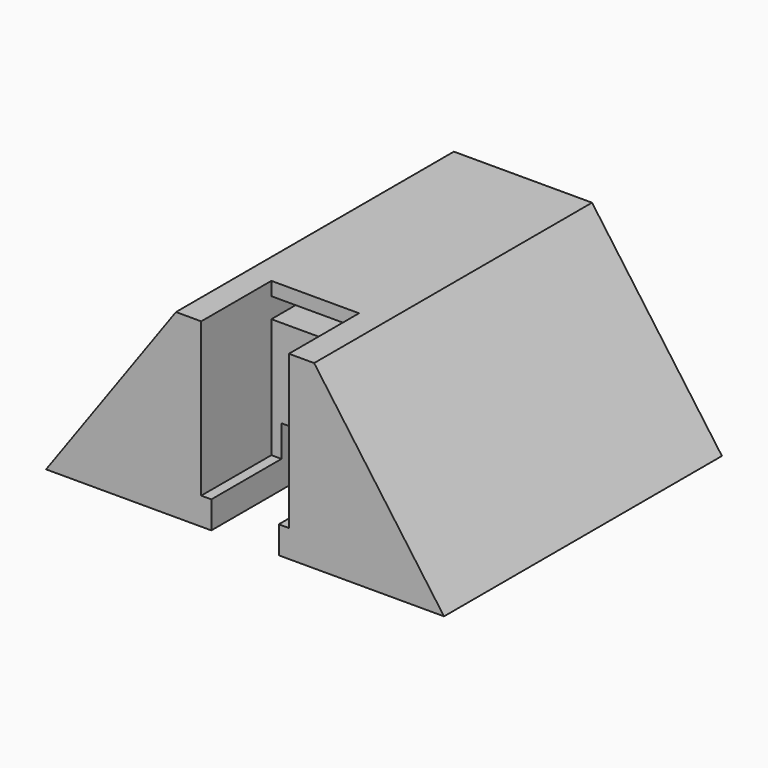
from build123d import *

# Parameters (mm, degrees)
F1_DEPTH = 26.8
F3_DEPTH = 51.5
F4_W     = 13
F4_H     = 3
F5_DEPTH = 5
F6_W     = 1.5
F6_H     = 13
F7_DEPTH = 22.75
F8_W     = 10
F8_H     = 8.7
F9_DEPTH = 38.5


with BuildPart() as f1:
    # F0 (on Top) → F1 (new body)
    with BuildSketch(Plane.XY):
        Polygon((29.5, 51.5), (-29.5, 51.5), (-29.5, 0), (-5, 0), (-5, 13), (5, 13), (5, 0), (29.5, 0), align=None)
    extrude(amount=F1_DEPTH)

    # F2 (on face) → F3 (cut, through all)
    with BuildSketch(Plane.XZ):
        Polygon((10.242246, 26.8), (29.5, 0), (29.5, 26.8), align=None)
        Polygon((-29.5, 26.8), (-29.5, 0), (-10.242246, 26.8), align=None)
    extrude(amount=-F3_DEPTH, mode=Mode.SUBTRACT)

    # F4 (on face) → F5 (cut)
    with BuildSketch(Plane.XZ.offset(-13)):
        with Locations((0, 23.3)):
            Rectangle(F4_W, F4_H)
    extrude(amount=-F5_DEPTH, mode=Mode.SUBTRACT)

    # F6 (on face) → F7 (cut)
    with BuildSketch(Plane.XY.offset(26.8)):
        with Locations((-5.75, 6.5)):
            Rectangle(F6_W, F6_H)
        with Locations((5.75, 6.5)):
            Rectangle(F6_W, F6_H)
    extrude(amount=-F7_DEPTH, mode=Mode.SUBTRACT)

    # F8 (on face) → F9 (cut, through all)
    with BuildSketch(Plane.XZ.offset(-13)):
        with Locations((0, 4.35)):
            Rectangle(F8_W, F8_H)
    extrude(amount=-F9_DEPTH, mode=Mode.SUBTRACT)


solid = f1.part
